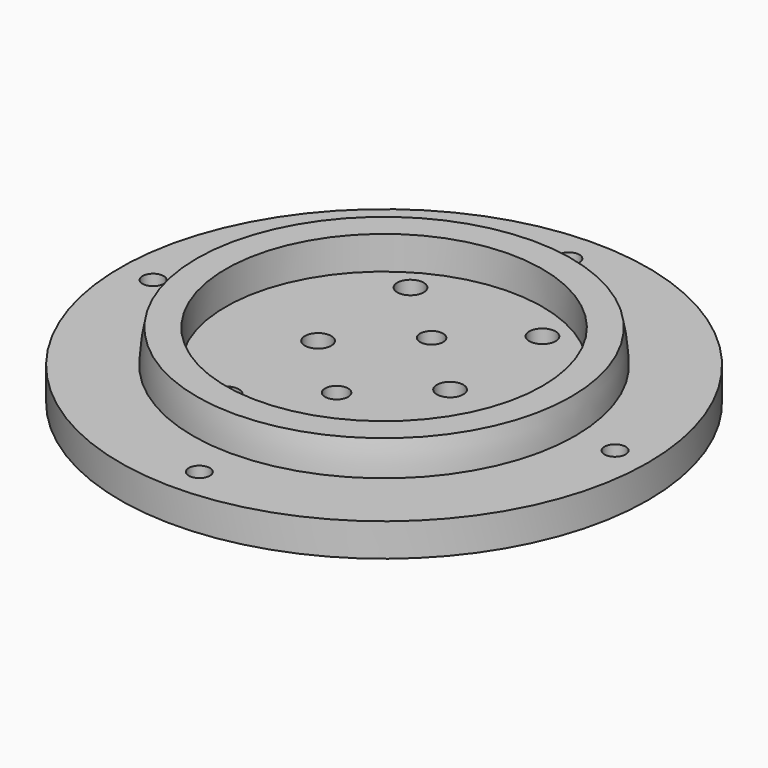
from build123d import *

# Parameters (mm, degrees)
CYLINDER075_R     = 1.6
CYLINDER075_DEPTH = 10
CYLINDER076_R     = 1.6
CYLINDER076_DEPTH = 10
CYLINDER077_R     = 1.6
CYLINDER077_DEPTH = 10
CYLINDER074_R     = 1.6
CYLINDER074_DEPTH = 10
CYLINDER071_R     = 2
CYLINDER071_DEPTH = 10
CYLINDER070_R     = 2
CYLINDER070_DEPTH = 10
CYLINDER073_R     = 1.75
CYLINDER073_DEPTH = 10
CYLINDER072_R     = 1.75
CYLINDER072_DEPTH = 10
CYLINDER064_R     = 2
CYLINDER064_DEPTH = 10
CYLINDER065_R     = 2
CYLINDER065_DEPTH = 10
CYLINDER066_R     = 2
CYLINDER066_DEPTH = 10
CYLINDER067_R     = 2
CYLINDER067_DEPTH = 10
CYLINDER069_R     = 24
CYLINDER069_DEPTH = 7
CYLINDER068_R     = 40
CYLINDER068_DEPTH = 5


with BuildPart() as obj1:
    # Cylinder075 → Cylinder075 (new body)
    with BuildSketch(Plane(origin=(40, 0, 65), x_dir=(1, 0, 0), z_dir=(0, 0, 1))):
        Circle(CYLINDER075_R)
    extrude(amount=CYLINDER075_DEPTH)


with BuildPart() as obj2:
    # Cylinder076 → Cylinder076 (new body)
    with BuildSketch(Plane(origin=(5, 35, 65), x_dir=(1, 0, 0), z_dir=(0, 0, 1))):
        Circle(CYLINDER076_R)
    extrude(amount=CYLINDER076_DEPTH)


with BuildPart() as obj3:
    # Cylinder077 → Cylinder077 (new body)
    with BuildSketch(Plane(origin=(5, -35, 65), x_dir=(1, 0, 0), z_dir=(0, 0, 1))):
        Circle(CYLINDER077_R)
    extrude(amount=CYLINDER077_DEPTH)


with BuildPart() as fusion037:
    # Cylinder074 → Cylinder074 (new body)
    with BuildSketch(Plane(origin=(-30, 0, 65), x_dir=(1, 0, 0), z_dir=(0, 0, 1))):
        Circle(CYLINDER074_R)
    extrude(amount=CYLINDER074_DEPTH)

    # Fusion037: union obj1, obj2, obj3
    add(obj1.part)
    add(obj2.part)
    add(obj3.part)


with BuildPart() as wirecut007:
    # Cylinder071 → Cylinder071 (new body)
    with BuildSketch(Plane(origin=(15, 0, 70), x_dir=(1, 0, 0), z_dir=(0, 0, 1))):
        Circle(CYLINDER071_R)
    extrude(amount=CYLINDER071_DEPTH)


with BuildPart() as wirecuts003:
    # Cylinder070 → Cylinder070 (new body)
    with BuildSketch(Plane(origin=(-5, 0, 70), x_dir=(1, 0, 0), z_dir=(0, 0, 1))):
        Circle(CYLINDER070_R)
    extrude(amount=CYLINDER070_DEPTH)

    # Fusion033: union wireCUt007
    add(wirecut007.part)


with BuildPart() as m3cuts007:
    # Cylinder073 → Cylinder073 (new body)
    with BuildSketch(Plane(origin=(5, 9, 70), x_dir=(1, 0, 0), z_dir=(0, 0, 1))):
        Circle(CYLINDER073_R)
    extrude(amount=CYLINDER073_DEPTH)


with BuildPart() as m3cute003:
    # Cylinder072 → Cylinder072 (new body)
    with BuildSketch(Plane(origin=(5, -9, 70), x_dir=(1, 0, 0), z_dir=(0, 0, 1))):
        Circle(CYLINDER072_R)
    extrude(amount=CYLINDER072_DEPTH)

    # Fusion034: union m3Cuts007
    add(m3cuts007.part)


with BuildPart() as cylinder064:
    # Cylinder064 → Cylinder064 (new body)
    with BuildSketch(Plane(origin=(0, -21, 0), x_dir=(1, 0, 0), z_dir=(0, 0, 1))):
        Circle(CYLINDER064_R)
    extrude(amount=CYLINDER064_DEPTH)


with BuildPart() as m3heatsetcuts009:
    # Cylinder065 → Cylinder065 (new body)
    with BuildSketch(Plane(origin=(20, -21, 0), x_dir=(1, 0, 0), z_dir=(0, 0, 1))):
        Circle(CYLINDER065_R)
    extrude(amount=CYLINDER065_DEPTH)

    # Fusion030: union Cylinder064
    add(cylinder064.part)


with BuildPart() as m3heatsetcuts009_1:
    # Fusion030 placement: moved
    add(m3heatsetcuts009.part.moved(Location((-5, 38.5, 70))))


with BuildPart() as cylinder066:
    # Cylinder066 → Cylinder066 (new body)
    with BuildSketch(Plane(origin=(0, -21, 0), x_dir=(1, 0, 0), z_dir=(0, 0, 1))):
        Circle(CYLINDER066_R)
    extrude(amount=CYLINDER066_DEPTH)


with BuildPart() as basecuts003:
    # Cylinder067 → Cylinder067 (new body)
    with BuildSketch(Plane(origin=(20, -21, 0), x_dir=(1, 0, 0), z_dir=(0, 0, 1))):
        Circle(CYLINDER067_R)
    extrude(amount=CYLINDER067_DEPTH)

    # Fusion031: union Cylinder066
    add(cylinder066.part)


with BuildPart() as basecuts003_1:
    # Fusion031 placement: moved
    add(basecuts003.part.moved(Location((-5, 3.5, 70))))

    # Fusion032: union m3HeatSetCuts009
    add(m3heatsetcuts009_1.part)

    # Fusion035: union wireCuts003, m3Cute003
    add(wirecuts003.part)
    add(m3cute003.part)


with BuildPart() as basecut003:
    # Cylinder069 → Cylinder069 (new body)
    with BuildSketch(Plane(origin=(5, 0, 74), x_dir=(1, 0, 0), z_dir=(0, 0, 1))):
        Circle(CYLINDER069_R)
    extrude(amount=CYLINDER069_DEPTH)


with BuildPart() as cut012:
    # Sphere004 → Sphere004 (revolve)
    with BuildSketch(Plane(origin=(5, 0, 74), x_dir=(1, 0, 0), z_dir=(0, -1, 0))):
        with BuildLine():
            ThreePointArc((29, 0), (28.841135, 3.031325), (28.36628, 6.029439))
            Line((28.36628, 6.029439), (0, 6.029439))
            Line((0, 6.029439), (0, 0))
            Line((0, 0), (29, 0))
        make_face()
    revolve(axis=Axis((5, 0, 74), (0, 0, 1)))

    # Cut012: cut baseCut003
    add(basecut003.part, mode=Mode.SUBTRACT)


with BuildPart() as lightmodule003:
    # Cylinder068 → Cylinder068 (new body)
    with BuildSketch(Plane(origin=(5, 0, 70), x_dir=(1, 0, 0), z_dir=(0, 0, 1))):
        Circle(CYLINDER068_R)
    extrude(amount=CYLINDER068_DEPTH)

    # Fusion036: union Cut012
    add(cut012.part)

    # Cut013: cut baseCUts003
    add(basecuts003_1.part, mode=Mode.SUBTRACT)

    # Cut014: cut Fusion037
    add(fusion037.part, mode=Mode.SUBTRACT)


with BuildPart() as lightmodule003_1:
    # Cut014 placement: moved
    add(lightmodule003.part.moved(Location((53, -150.25, 0))))


solid = lightmodule003_1.part
